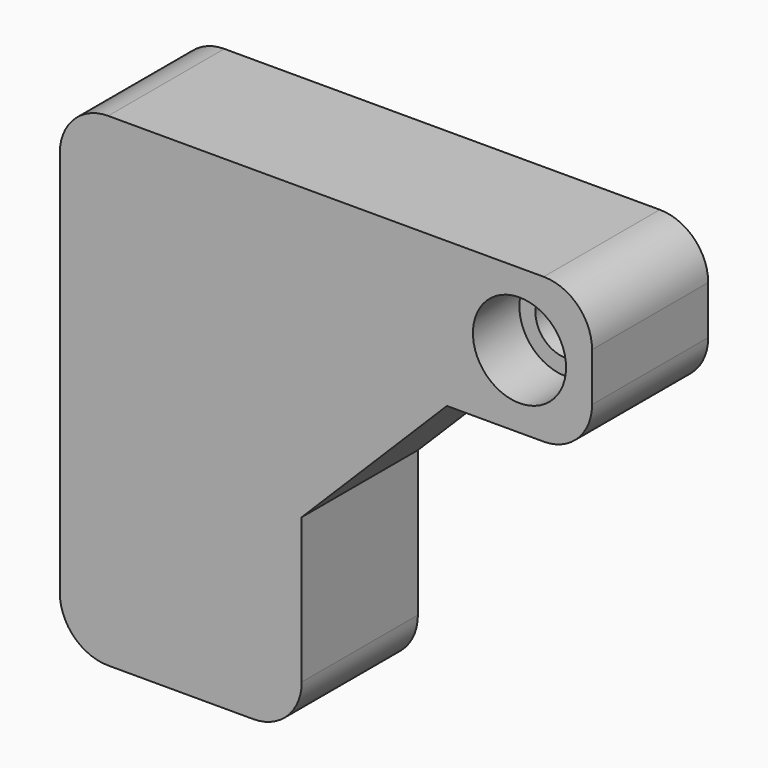
from build123d import *

# Parameters (mm, degrees)
F1_DEPTH       = 30
F2_R           = 10
F3_D           = 12.6
F3_CBORE_D     = 19.25
F3_CBORE_DEPTH = 12


with BuildPart() as f1:
    # F0 (on Front) → F1 (new body)
    with BuildSketch(Plane.XZ):
        Polygon((0, -40), (0, 0), (30, 30), (60, 30), (60, 60), (-50, 60), (-50, -40), align=None)
    extrude(amount=-F1_DEPTH)

    # F2
    f2_edges = [f1.edges().sort_by_distance(p)[0] for p in [
        (-50, 15, -40),
        (0, 15, -40),
        (-50, 15, 60),
        (60, 15, 60),
        (60, 15, 30),
    ]]
    fillet(f2_edges, radius=F2_R)

    # F3 (through all)
    with Locations(Plane.XZ):
        with Locations((45, 45)):
            CounterBoreHole(F3_D / 2, F3_CBORE_D / 2, F3_CBORE_DEPTH)


solid = f1.part
